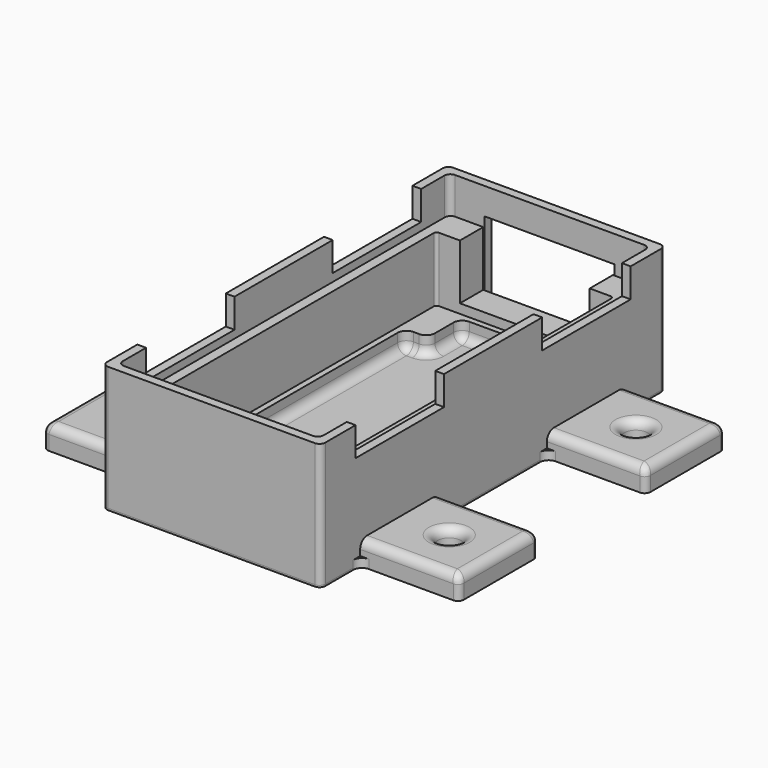
from build123d import *

# Parameters (mm, degrees)
SKETCH_W        = 37.5
SKETCH_H        = 74.1
PAD_DEPTH       = 1.5
SKETCH001_W     = 33.9
SKETCH001_H     = 70.5
SKETCH001_W_2   = 30.5
SKETCH001_H_2   = 60.5
PAD001_DEPTH    = 14.1
SKETCH002_W     = 22.3
SKETCH002_H     = 5
POCKET_DEPTH    = 9.5
SKETCH014_W     = 30.5
SKETCH014_H     = 60.5
PAD014_DEPTH    = 3
SKETCH015_W     = 18.8
SKETCH015_H     = 17
PAD015_DEPTH    = 4
SKETCH016_R     = 2
POCKET006_DEPTH = 4.001
FILLET_R        = 1
FILLET012_R     = 0.5
FILLET013_R     = 1.5
FILLET014_R     = 1.5
FILLET015_R     = 1.5
FILLET016_R     = 1.5
FILLET017_R     = 1.5
FILLET018_R     = 1.5
FILLET019_R     = 1.5
SKETCH008_W     = 37.5
SKETCH008_H     = 74.1
PAD011_DEPTH    = 1.5
SKETCH009_W     = 37.5
SKETCH009_H     = 74.1
SKETCH009_W_2   = 34.5
SKETCH009_H_2   = 71.1
PAD012_DEPTH    = 20.2
SKETCH010_W     = 22.3
SKETCH010_H     = 13
POCKET003_DEPTH = 1.5
SKETCH017_W     = 19
SKETCH017_H     = 5
POCKET007_DEPTH = 37.501
FILLET020_R     = 1
FILLET021_R     = 0.3


with BuildPart() as bottom:
    # Sketch → Pad (new body)
    with BuildSketch(Plane.XY):
        Rectangle(SKETCH_W, SKETCH_H)
    extrude(amount=PAD_DEPTH)

    # Sketch001 (on Face6 of Pad) → Pad001 (join)
    with BuildSketch(Plane.XY.offset(1.5)):
        Rectangle(SKETCH001_W, SKETCH001_H)
        Rectangle(SKETCH001_W_2, SKETCH001_H_2, mode=Mode.SUBTRACT)
    extrude(amount=PAD001_DEPTH)

    # Sketch002 (on Face11 of Pad001) → Pocket (cut)
    with BuildSketch(Plane.XY.offset(15.6)):
        with Locations((0, 32.75)):
            Rectangle(SKETCH002_W, SKETCH002_H)
    extrude(amount=-POCKET_DEPTH, mode=Mode.SUBTRACT)

    # Sketch014 (on Face19 of Pocket) → Pad014 (join)
    with BuildSketch(Plane.XY.offset(1.5)):
        Rectangle(SKETCH014_W, SKETCH014_H)
        Polygon((-10.25, 22.25), (-10.25, 29.25), (10.25, 29.25), (10.25, 22.25), (14.25, 22.25), (14.25, -22.25), (10.25, -22.25), (10.25, -29.25), (-10.25, -29.25), (-10.25, -22.25), (-14.25, -22.25), (-14.25, 22.25), align=None, mode=Mode.SUBTRACT)
    extrude(amount=PAD014_DEPTH)

    # Sketch015 (on Face4 of Pad014) → Pad015 (join)
    with BuildSketch(Plane(origin=(0, 0, 0), x_dir=(1, 0, 0), z_dir=(0, 0, -1))):
        with Locations((-26.35, 20.05)):
            Rectangle(SKETCH015_W, SKETCH015_H)
        with Locations((-26.35, -20.05)):
            Rectangle(SKETCH015_W, SKETCH015_H)
        with Locations((26.35, -20.05)):
            Rectangle(SKETCH015_W, SKETCH015_H)
        with Locations((26.35, 20.05)):
            Rectangle(SKETCH015_W, SKETCH015_H)
    extrude(amount=-PAD015_DEPTH)

    # Sketch016 (on Face22 of Pad015) → Pocket006 (cut, through all)
    with BuildSketch(Plane.XY.offset(4)):
        with Locations((-27.25, 20.05)):
            Circle(SKETCH016_R)
        with Locations((27.25, 20.05)):
            Circle(SKETCH016_R)
        with Locations((27.25, -20.05)):
            Circle(SKETCH016_R)
        with Locations((-27.25, -20.05)):
            Circle(SKETCH016_R)
    extrude(amount=-POCKET006_DEPTH, mode=Mode.SUBTRACT)

    # Fillet
    fillet_edges = [bottom.edges().sort_by_distance(p)[0] for p in [
        (16.95, 35.25, 8.55),
        (-16.95, 35.25, 8.55),
        (18.75, 37.05, 0.75),
        (-18.75, 37.05, 0.75),
        (16.95, -35.25, 8.55),
        (18.75, -37.05, 0.75),
        (-18.75, -37.05, 0.75),
        (-16.95, -35.25, 8.55),
        (-35.75, -28.55, 2),
        (-35.75, -11.55, 2),
        (-35.75, 11.55, 2),
        (-35.75, 28.55, 2),
        (35.75, -28.55, 2),
        (35.75, -11.55, 2),
        (35.75, 11.55, 2),
        (35.75, 28.55, 2),
    ]]
    fillet(fillet_edges, radius=FILLET_R)

    # Fillet012
    fillet012_edges = [bottom.edges().sort_by_distance(p)[0] for p in [
        (-15.25, -30.25, 10.05),
        (15.25, -30.25, 10.05),
        (15.25, 30.25, 10.05),
        (-15.25, 30.25, 10.05),
    ]]
    fillet(fillet012_edges, radius=FILLET012_R)

    # Fillet013
    fillet013_edges = [bottom.edges().sort_by_distance(p)[0] for p in [
        (-14.25, 22.25, 3),
        (-10.25, 22.25, 3),
        (-10.25, 29.25, 3),
        (10.25, 29.25, 3),
        (10.25, 22.25, 3),
        (14.25, 22.25, 3),
        (14.25, -22.25, 3),
        (10.25, -22.25, 3),
        (10.25, -29.25, 3),
        (-10.25, -29.25, 3),
        (-10.25, -22.25, 3),
        (-14.25, -22.25, 3),
    ]]
    fillet(fillet013_edges, radius=FILLET013_R)

    # Fillet014
    fillet014_edges = [bottom.edges().sort_by_distance(p)[0] for p in [
        (-14.25, 0, 1.5),
        (-13.81066, -21.81066, 1.5),
        (-13.81066, 21.81066, 1.5),
        (-12.25, -22.25, 1.5),
        (-12.25, 22.25, 1.5),
        (-10.68934, -22.68934, 1.5),
        (-10.68934, 22.68934, 1.5),
        (-10.25, -25.75, 1.5),
        (-10.25, 25.75, 1.5),
        (-9.81066, -28.81066, 1.5),
        (-9.81066, 28.81066, 1.5),
        (0, -29.25, 1.5),
        (0, 29.25, 1.5),
        (9.81066, -28.81066, 1.5),
        (9.81066, 28.81066, 1.5),
        (10.25, -25.75, 1.5),
        (10.25, 25.75, 1.5),
        (10.68934, -22.68934, 1.5),
        (10.68934, 22.68934, 1.5),
        (12.25, -22.25, 1.5),
        (12.25, 22.25, 1.5),
        (13.81066, -21.81066, 1.5),
        (13.81066, 21.81066, 1.5),
        (14.25, 0, 1.5),
    ]]
    fillet(fillet014_edges, radius=FILLET014_R)

    # Fillet015
    fillet015_edges = [bottom.edges().sort_by_distance(p)[0] for p in [
        (-25.85, 11.55, 4),
        (-35.457107, 11.842893, 4),
        (-16.95, 20.05, 4),
        (-35.75, 20.05, 4),
        (-25.85, 28.55, 4),
        (-35.457107, 28.257107, 4),
        (-29.25, 20.05, 4),
    ]]
    fillet(fillet015_edges, radius=FILLET015_R)

    # Fillet016
    fillet016_edges = [bottom.edges().sort_by_distance(p)[0] for p in [
        (-25.85, -28.55, 4),
        (-35.457107, -28.257107, 4),
        (-16.95, -20.05, 4),
        (-35.75, -20.05, 4),
        (-25.85, -11.55, 4),
        (-35.457107, -11.842893, 4),
        (-29.25, -20.05, 4),
    ]]
    fillet(fillet016_edges, radius=FILLET016_R)

    # Fillet017
    fillet017_edges = [bottom.edges().sort_by_distance(p)[0] for p in [
        (25.85, 11.55, 4),
        (35.457107, 11.842893, 4),
        (16.95, 20.05, 4),
        (35.75, 20.05, 4),
        (25.85, 28.55, 4),
        (35.457107, 28.257107, 4),
        (25.25, 20.05, 4),
    ]]
    fillet(fillet017_edges, radius=FILLET017_R)

    # Fillet018
    fillet018_edges = [bottom.edges().sort_by_distance(p)[0] for p in [
        (25.85, -28.55, 4),
        (35.457107, -28.257107, 4),
        (16.95, -20.05, 4),
        (35.75, -20.05, 4),
        (25.85, -11.55, 4),
        (35.457107, -11.842893, 4),
        (25.25, -20.05, 4),
    ]]
    fillet(fillet018_edges, radius=FILLET018_R)

    # Fillet019
    fillet019_edges = [bottom.edges().sort_by_distance(p)[0] for p in [
        (-18.75, 28.55, 0.75),
        (-18.75, 11.55, 0.75),
        (-18.75, -28.55, 0.75),
        (-18.75, -11.55, 0.75),
        (18.75, 28.55, 0.75),
        (18.75, 11.55, 0.75),
        (18.75, -28.55, 0.75),
        (18.75, -11.55, 0.75),
    ]]
    fillet(fillet019_edges, radius=FILLET019_R)


with BuildPart() as top:
    # Sketch008 → Pad011 (new body)
    with BuildSketch(Plane.XY):
        Rectangle(SKETCH008_W, SKETCH008_H)
    extrude(amount=PAD011_DEPTH)

    # Sketch009 (on Face6 of Pad011) → Pad012 (join)
    with BuildSketch(Plane.XY.offset(1.5)):
        Rectangle(SKETCH009_W, SKETCH009_H)
        Rectangle(SKETCH009_W_2, SKETCH009_H_2, mode=Mode.SUBTRACT)
    extrude(amount=PAD012_DEPTH)

    # Sketch010 (on Face5 of Pad012) → Pocket003 (cut)
    with BuildSketch(Plane(origin=(0, 37.05, 0), x_dir=(-1, 0, 0), z_dir=(0, 1, 0))):
        with Locations((0, 10.6)):
            Rectangle(SKETCH010_W, SKETCH010_H)
    extrude(amount=-POCKET003_DEPTH, mode=Mode.SUBTRACT)

    # Sketch017 (on Face7 of Pocket003) → Pocket007 (cut, through all)
    with BuildSketch(Plane(origin=(-18.75, 0, 0), x_dir=(0, -1, 0), z_dir=(-1, 0, 0))):
        with Locations((-20.05, 19.2)):
            Rectangle(SKETCH017_W, SKETCH017_H)
        with Locations((20.05, 19.2)):
            Rectangle(SKETCH017_W, SKETCH017_H)
    extrude(amount=-POCKET007_DEPTH, mode=Mode.SUBTRACT)

    # Fillet020
    fillet020_edges = [top.edges().sort_by_distance(p)[0] for p in [
        (-18.75, -37.05, 11.6),
        (-18.75, 37.05, 11.6),
        (18.75, -37.05, 11.6),
        (18.75, 37.05, 11.6),
        (-17.25, 35.55, 11.6),
        (17.25, 35.55, 11.6),
        (17.25, -35.55, 11.6),
        (-17.25, -35.55, 11.6),
    ]]
    fillet(fillet020_edges, radius=FILLET020_R)

    # Fillet021
    fillet021_edges = [top.edges().sort_by_distance(p)[0] for p in [
        (0, 37.05, 0),
        (-18.457107, 36.757107, 0),
        (18.457107, 36.757107, 0),
        (-18.75, 0, 0),
        (18.75, 0, 0),
        (-18.457107, -36.757107, 0),
        (18.457107, -36.757107, 0),
        (0, -37.05, 0),
    ]]
    fillet(fillet021_edges, radius=FILLET021_R)


solid = Compound([bottom.part, top.part])
